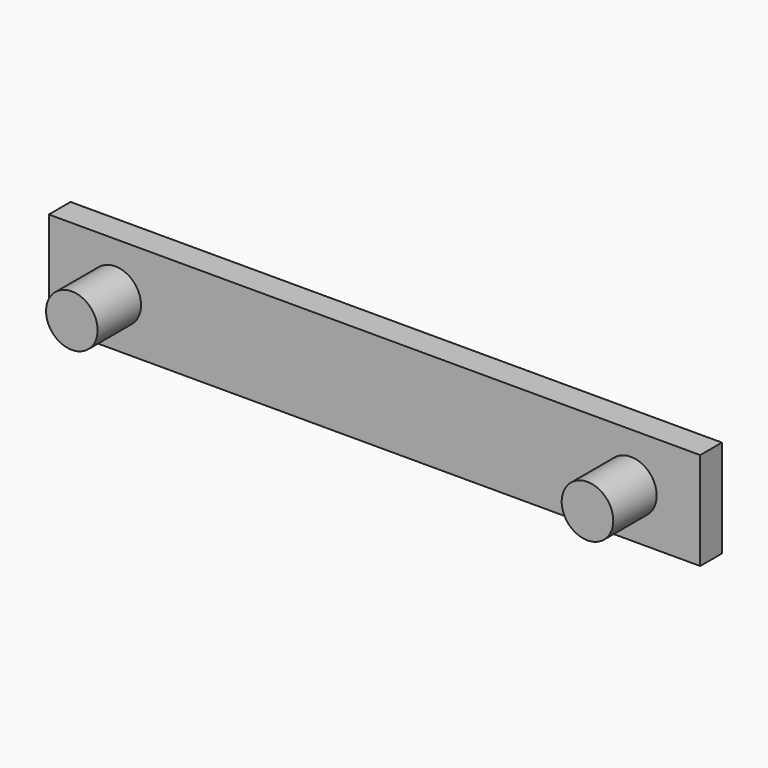
from build123d import *

# Parameters (mm, degrees)
F0_R          = 4.75
F1_DEPTH      = 10
F1_DEPTH_BACK = 5
F0_W          = 120
F0_H          = 18
F2_DEPTH      = 5


with BuildPart() as f1:
    # F0 (on Front) → F1 (new body, two sides)
    with BuildSketch(Plane.XZ) as f1_sk:
        Circle(F0_R)
    extrude(amount=F1_DEPTH)
    extrude(f1_sk.sketch, amount=-F1_DEPTH_BACK)



with BuildPart() as f1b:
    # F0 (on Front) → F1, piece 2 (new body, two sides)
    with BuildSketch(Plane.XZ) as f1_2_sk:
        with Locations((95, 0)):
            Circle(F0_R)
    extrude(amount=F1_DEPTH)
    extrude(f1_2_sk.sketch, amount=-F1_DEPTH_BACK)


with BuildPart() as f1_1:
    add(f1.part)

    add(f1b.part)  # F2 merges F1b
    # F0 (on Front) → F2 (join)
    with BuildSketch(Plane.XZ):
        with Locations((47.7674523741, 0.1763370037)):
            Rectangle(F0_W, F0_H)
        Circle(F0_R, mode=Mode.SUBTRACT)
        with Locations((95, 0)):
            Circle(F0_R, mode=Mode.SUBTRACT)
    extrude(amount=-F2_DEPTH)


solid = f1_1.part
